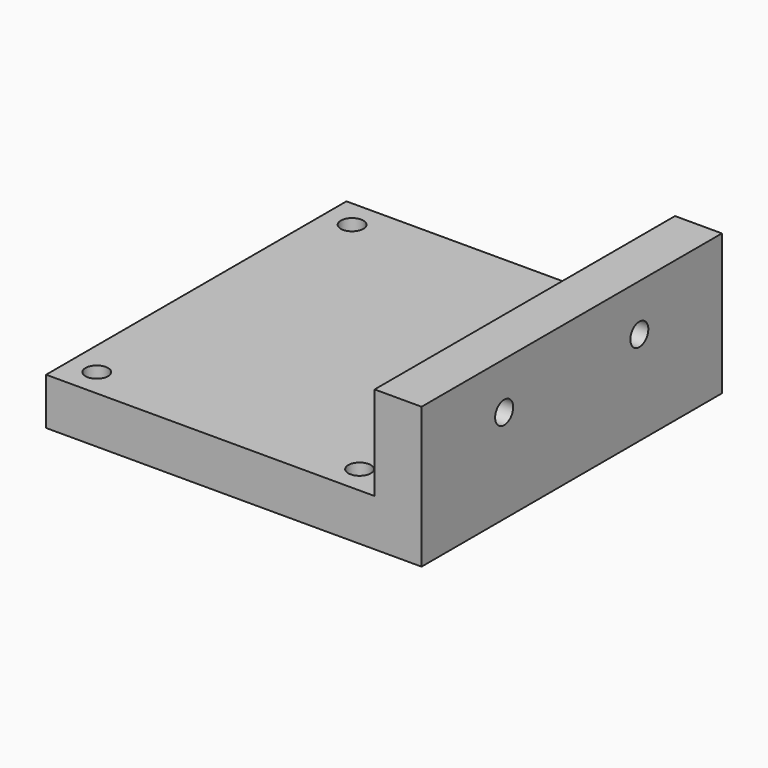
from build123d import *

# Parameters (mm, degrees)
F0_W     = 40
F0_H     = 40
F1_DEPTH = 5
F2_W     = 5
F2_H     = 40
F3_DEPTH = 10
F5_D     = 2.4
F7_D     = 2.4


with BuildPart() as f1:
    # F0 (on Top) → F1 (new body)
    with BuildSketch(Plane.XY):
        Rectangle(F0_W, F0_H)
    extrude(amount=F1_DEPTH)

    # F2 (on face) → F3 (join)
    with BuildSketch(Plane.XY.offset(5)):
        with Locations((17.5, 0)):
            Rectangle(F2_W, F2_H)
    extrude(amount=F3_DEPTH)

    # F5 (through all)
    with Locations(Plane.YZ.offset(20)):
        with Locations((-9, 10), (9, 10)):
            Hole(F5_D / 2)

    # F7 (through all)
    with Locations(Plane.XY.offset(5)):
        with Locations((-17, 17), (11, 17), (11, -17), (-17, -17)):
            Hole(F7_D / 2)


solid = f1.part
